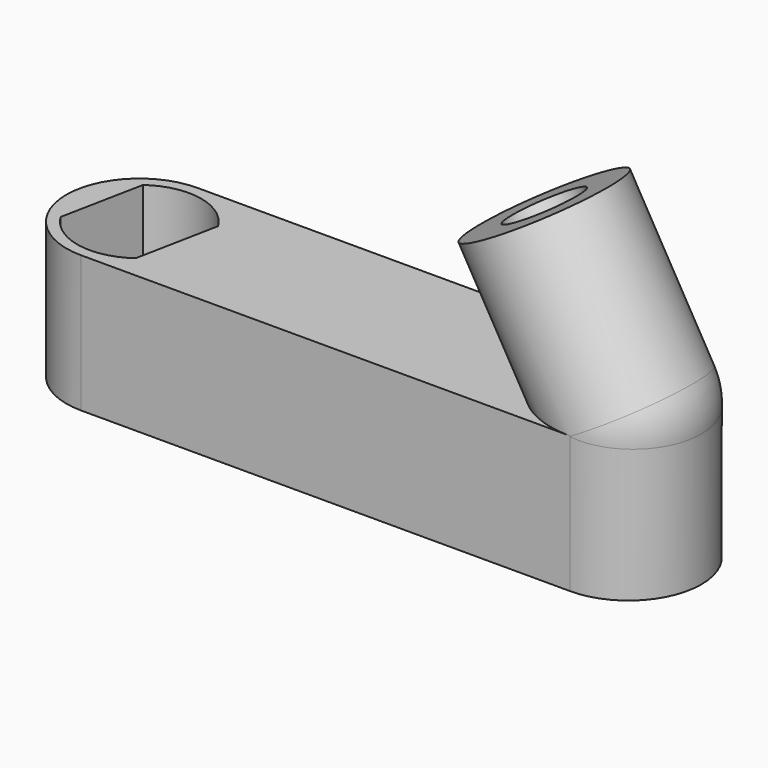
from build123d import *

# Parameters (mm, degrees)
SKETCH011_R     = 8
PAD003_DEPTH    = 18.5
PAD004_DEPTH    = 15
POCKET004_DEPTH = 15.001
SKETCH015_R     = 4
POCKET005_DEPTH = 20


with BuildPart() as part:
    # Sketch011 (on DatumPlane) → Pad003 (new body)
    with BuildSketch(Plane(origin=(44.455971, 0, 0), x_dir=(0.866025, 0, 0.5), z_dir=(-0.5, 0, 0.866025))):
        Circle(SKETCH011_R)
    extrude(amount=-PAD003_DEPTH)

    # Sketch012 → Revolution001 (revolve)
    with BuildSketch(Plane.XZ):
        with BuildLine():
            ThreePointArc((46.777767, -20.02147), (51.635418, -23.748877), (57.705971, -22.949673))
            Line((53.705971, -16.02147), (57.705971, -22.949673))
            Line((46.777767, -20.02147), (53.705971, -16.02147))
        make_face()
    revolve(axis=Axis((44.455971, 0, 0), (-0.5, 0, 0.866025)))

    # Sketch013 (on DatumPlane) → Pad004 (join)
    with BuildSketch(Plane.XY.offset(-16)):
        with BuildLine():
            ThreePointArc((0, 8), (-8, 0), (0, -8))
            Line((0, -8), (53.693575, -8))
            ThreePointArc((53.693575, -8), (61.693575, 0), (53.693575, 8))
            Line((0, 8), (53.693575, 8))
        make_face()
    extrude(amount=-PAD004_DEPTH)

    # Sketch014 (on DatumPlane) → Pocket004 (cut, through all)
    with BuildSketch(Plane.XY.offset(-16)):
        with BuildLine():
            ThreePointArc((5.804447, 3.551769), (1.32757, 6.674146), (-4.003406, 5.502672))
            Line((-5.804447, -3.551769), (-4.003406, 5.502672))
            ThreePointArc((-5.804447, -3.551769), (-1.32757, -6.674146), (4.003406, -5.502672))
            Line((4.003406, -5.502672), (5.804447, 3.551769))
        make_face()
    extrude(amount=-POCKET004_DEPTH, mode=Mode.SUBTRACT)

    # Sketch015 (on Face6 of Pocket004) → Pocket005 (cut)
    with BuildSketch(Plane(origin=(44.455971, 0, 0), x_dir=(0.866025, 0, 0.5), z_dir=(-0.5, 0, 0.866025))):
        Circle(SKETCH015_R)
    extrude(amount=-POCKET005_DEPTH, mode=Mode.SUBTRACT)


with BuildPart() as part_1:
    # Body002 placement: moved
    add(part.part.moved(Location((0, 0, 31))))


solid = part_1.part
